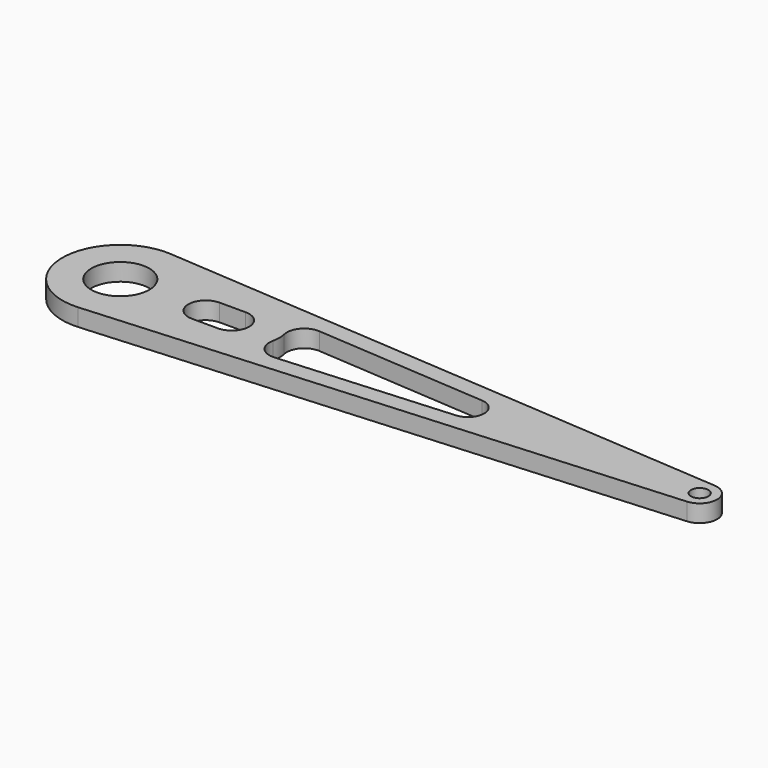
from build123d import *

# Parameters (mm, degrees)
F0_R     = 5
F0_R_2   = 1.5
F1_DEPTH = 1.5


with BuildPart() as f1:
    # F0 (on Top) → F1 (new body, symmetric)
    with BuildSketch(Plane.XY):
        with BuildLine():
            Line((50.21, 2.9926409741), (-49.3, 9.9754699137))
            ThreePointArc((-49.3, 9.9754699137), (-60, 0), (-49.3, -9.9754699137))
            Line((-49.3, -9.9754699137), (50.21, -2.9926409741))
            ThreePointArc((50.21, -2.9926409741), (53, 0), (50.21, 2.9926409741))
        make_face()
        with Locations((-50, 0)):
            Circle(F0_R, mode=Mode.SUBTRACT)
        with BuildLine():
            ThreePointArc((-35.25, -3), (-38.25, 0), (-35.25, 3))
            Line((-35.25, 3), (-30.75, 3))
            ThreePointArc((-30.75, 3), (-27.75, 0), (-30.75, -3))
            Line((-30.75, -3), (-35.25, -3))
        make_face(mode=Mode.SUBTRACT)
        with BuildLine():
            ThreePointArc((-19.5432131994, -4.8799955952), (-22.0323332526, -3.838152351), (-22.6776056819, -1.2180799328))
            ThreePointArc((-22.6776056819, -1.2180799328), (-22.54, 0), (-22.6776056819, 1.2180799328))
            ThreePointArc((-22.6776056819, 1.2180799328), (-22.0323332526, 3.838152351), (-19.5432131994, 4.8799955952))
            Line((-19.5432131994, 4.8799955952), (10.196, 2.7931315758))
            ThreePointArc((10.196, 2.7931315758), (12.8, 0), (10.196, -2.7931315758))
            Line((10.196, -2.7931315758), (-19.5432131994, -4.8799955952))
        make_face(mode=Mode.SUBTRACT)
        with Locations((50, 0)):
            Circle(F0_R_2, mode=Mode.SUBTRACT)
    extrude(amount=F1_DEPTH, both=True)


solid = f1.part
